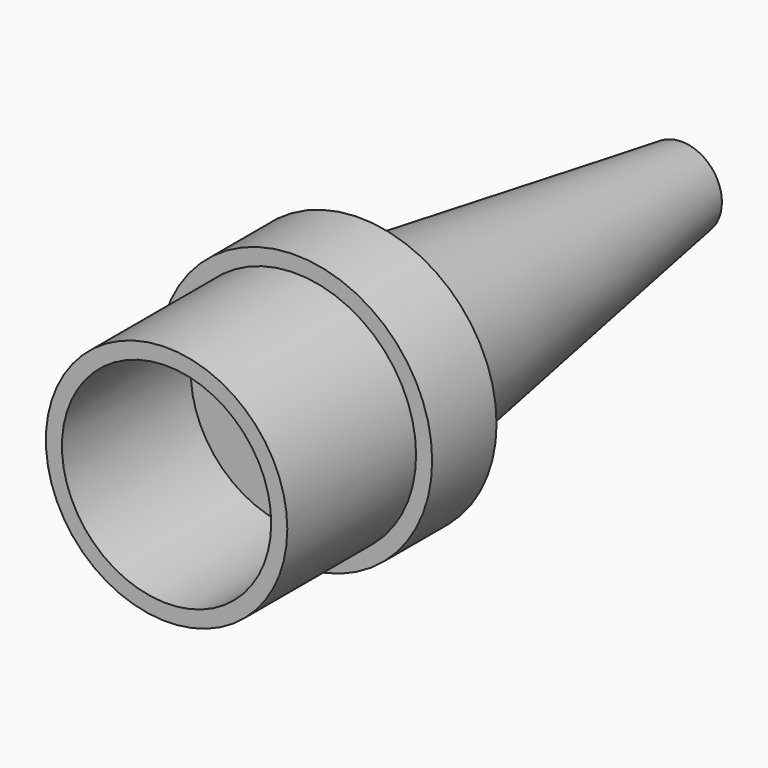
from build123d import *

# Parameters (mm, degrees)
F0_R      = 38.1
F1_DEPTH  = 76.2
F2_R      = 33.02
F3_DEPTH  = 69.85
F5_R      = 12.7
F6_DEPTH  = 127
F6_FACE_R = 12.7
F4_R      = 31.75
F8_R      = 43.18
F9_DEPTH  = 25.4


with BuildPart() as f1:
    # F0 (on Front) → F1 (new body)
    with BuildSketch(Plane.XZ):
        Circle(F0_R)
    extrude(amount=F1_DEPTH)

    # F2 (on face) → F3 (cut)
    with BuildSketch(Plane.XZ.offset(76.2)):
        Circle(F2_R)
    extrude(amount=-F3_DEPTH, mode=Mode.SUBTRACT)

    # F5 (on Front) → F6 (join)
    with BuildSketch(Plane.XZ):
        Circle(F5_R)
    extrude(amount=-F6_DEPTH)

    # F6_face (on face) → F7 section 0
    with BuildSketch(Plane(origin=(0, 127, 0), x_dir=(1, 0, 0), z_dir=(0, 1, 0))):
        Circle(F6_FACE_R)
    # F4 (on face) → F7 section 1
    with BuildSketch(Plane(origin=(0, 0, 0), x_dir=(-1, 0, 0), z_dir=(0, 1, 0))):
        Circle(F4_R)
    loft()

    # F8 (on Front) → F9 (join)
    with BuildSketch(Plane.XZ):
        Circle(F8_R)
    extrude(amount=F9_DEPTH)


solid = f1.part
